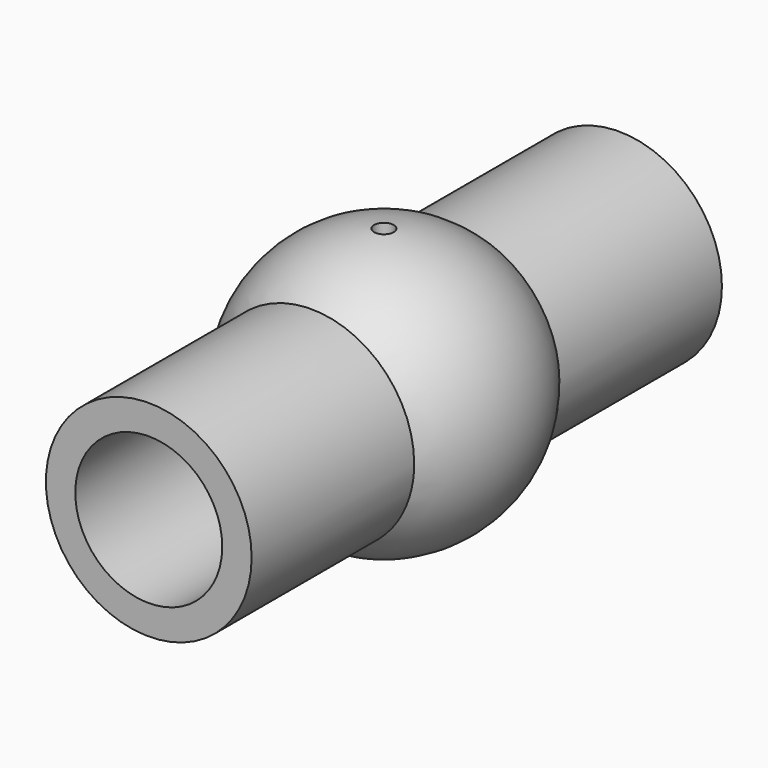
from build123d import *

# Parameters (mm, degrees)
F2_R     = 13.335
F2_R_2   = 9.525
F3_DEPTH = 38.1
F4_D     = 19.05
F4_DEPTH = 25.4
F4_TIP   = 5.7231973962
F5_D     = 19.05
F5_DEPTH = 25.4
F5_TIP   = 5.7231973962
F7_D     = 2.54
F7_DEPTH = 25.4
F7_TIP   = 0.7630929862


with BuildPart() as f1:
    # F0 (on Front) → F1 (revolve)
    with BuildSketch(Plane.XZ):
        with BuildLine():
            ThreePointArc((0, -13.97), (-13.97, 0), (0, 13.97))
            Line((0, 13.97), (0, 17.78))
            ThreePointArc((0, 17.78), (-17.78, 0), (0, -17.78))
            Line((0, -17.78), (0, -13.97))
        make_face()
    revolve(axis=Axis((0, 0, 0), (0, 0, -1)))

    # F2 (on Front) → F3 (join, symmetric)
    with BuildSketch(Plane.XZ):
        Circle(F2_R)
        Circle(F2_R_2, mode=Mode.SUBTRACT)
    extrude(amount=F3_DEPTH, both=True)

    # F4 (one way)
    with BuildSketch(Plane.XZ):
        with Locations((0, 0)):
            Circle(F4_D / 2)
    extrude(amount=-F4_DEPTH, mode=Mode.SUBTRACT)
    with Locations(Plane.XZ):
        with Locations((0, 0)):
            with Locations((0, 0, -(F4_DEPTH + F4_TIP / 2))):  # 118° drill point
                Cone(0, F4_D / 2, F4_TIP, mode=Mode.SUBTRACT)

    # F5
    with Locations(Plane(origin=(0, 0, 0), x_dir=(1, 0, 0), z_dir=(0, 1, 0))):
        with Locations((0, 0)):
            Hole(F5_D / 2, depth=F5_DEPTH)
            with Locations((0, 0, -(F5_DEPTH + F5_TIP / 2))):  # 118° drill point
                Cone(0, F5_D / 2, F5_TIP, mode=Mode.SUBTRACT)

    # F7 (one way)
    with BuildSketch(Plane(origin=(0, 0, 0), x_dir=(1, 0, 0), z_dir=(0, 0, -1))):
        with Locations((0, 0)):
            Circle(F7_D / 2)
    extrude(amount=-F7_DEPTH, mode=Mode.SUBTRACT)
    with Locations(Plane(origin=(0, 0, 0), x_dir=(1, 0, 0), z_dir=(0, 0, -1))):
        with Locations((0, 0)):
            with Locations((0, 0, -(F7_DEPTH + F7_TIP / 2))):  # 118° drill point
                Cone(0, F7_D / 2, F7_TIP, mode=Mode.SUBTRACT)


solid = f1.part
